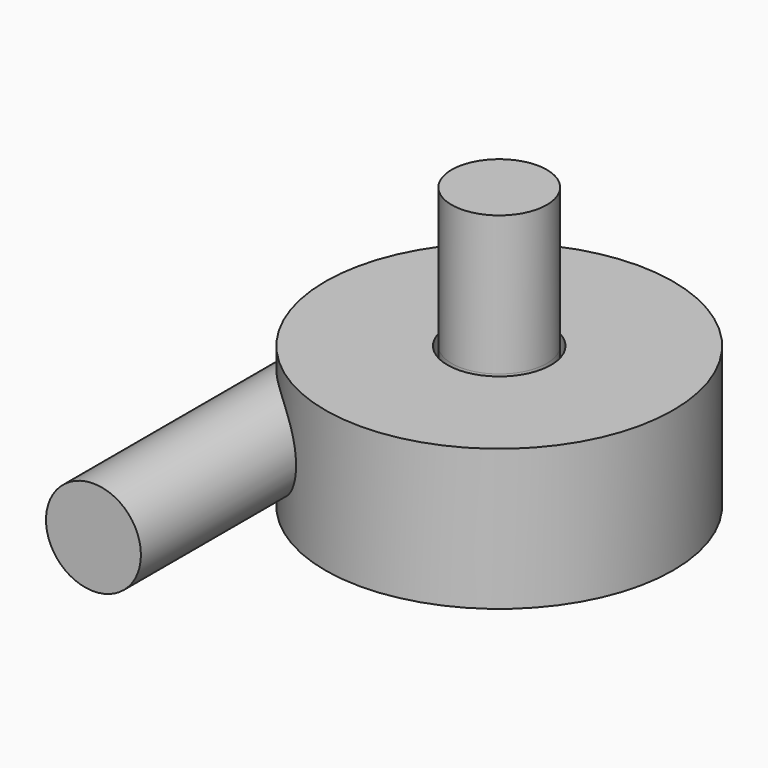
from build123d import *

# Parameters (mm, degrees)
F2_R      = 68
F3_DEPTH  = 500
F1_FACE_R = 68.2
F4_DEPTH  = 200


with BuildPart() as f1:
    # F0 (on Front) → F1 (revolve)
    with BuildSketch(Plane.XZ):
        Polygon((-249.4, 165.3), (-114, 165.3), (0, 165.3), (0, 367.3), (-68.2, 367.3), (-68.2, 245), (-74.2, 245), (-74.2, 367.3), (-249.4, 367.3), align=None)
    revolve(axis=Axis((0, 0, 266.3), (0, 0, -1)))

    # F2 (on Front) → F3 (join)
    with BuildSketch(Plane.XZ):
        with Locations((-181.4, 270)):
            Circle(F2_R)
    extrude(amount=F3_DEPTH)

    # F1_face (on face) → F4 (join)
    with BuildSketch(Plane.XY.offset(367.3)):
        Circle(F1_FACE_R)
    extrude(amount=F4_DEPTH)


solid = f1.part
